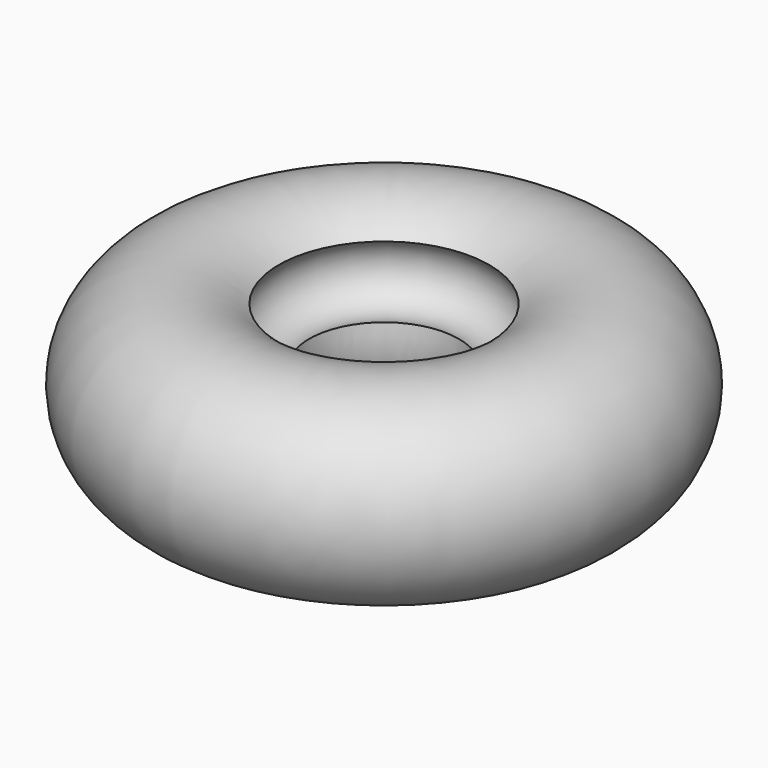
from build123d import *


with BuildPart() as f1:
    # F0 (on Front) → F1 (revolve)
    with BuildSketch(Plane.XZ):
        with BuildLine():
            ThreePointArc((-27.434878, 30.536104), (-23.89859, 13.086439), (-40.505319, 6.66673))
            ThreePointArc((-40.505319, 6.66673), (-28.157317, -29.871251), (9.045756, -40.041234))
            ThreePointArc((9.045756, -40.041234), (12.861856, -32.003235), (21.179038, -35.164961))
            ThreePointArc((21.179038, -35.164961), (32.999111, 24.416896), (-27.434878, 30.536104))
        make_face()
    revolve(axis=Axis((-72.796278, 0, 26.096396), (0, 0, 1)))


solid = f1.part
